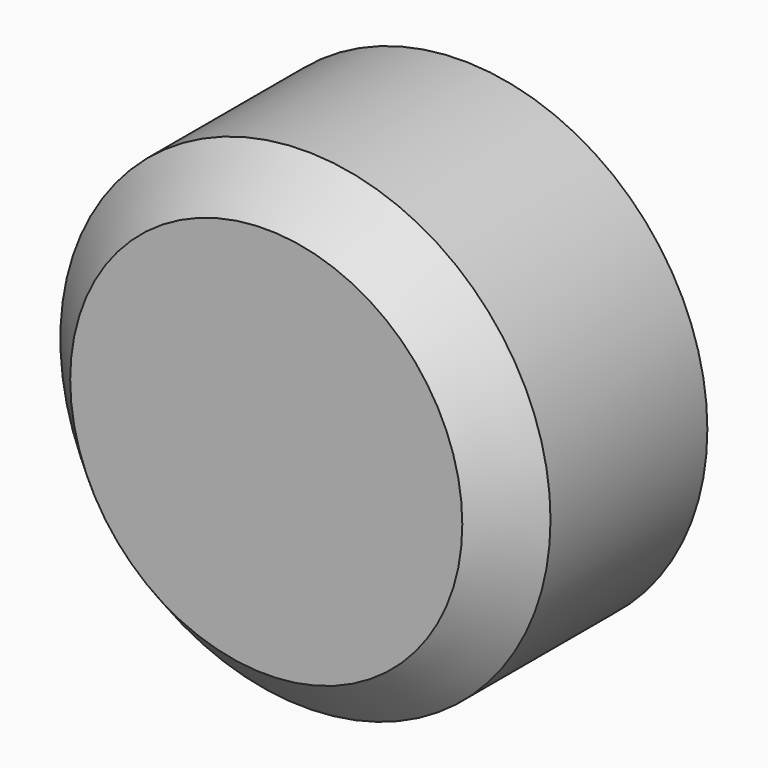
from build123d import *

# Parameters (mm, degrees)
F0_R     = 25.4
F1_DEPTH = 25.4
F2_SIZE  = 5.08
F3_T     = -2.54


with BuildPart() as f1:
    # F0 (on Front) → F1 (new body)
    with BuildSketch(Plane.XZ):
        Circle(F0_R)
    extrude(amount=F1_DEPTH)

    # F2
    f2_edges = [f1.edges().sort_by_distance(p)[0] for p in [
        (-25.4, -25.4, 0),
    ]]
    chamfer(f2_edges, length=F2_SIZE)

    # F3
    f3_openings = [f1.faces().sort_by_distance(p)[0] for p in [
        (0, 0, 0),
    ]]
    offset(amount=F3_T, openings=f3_openings)


solid = f1.part
